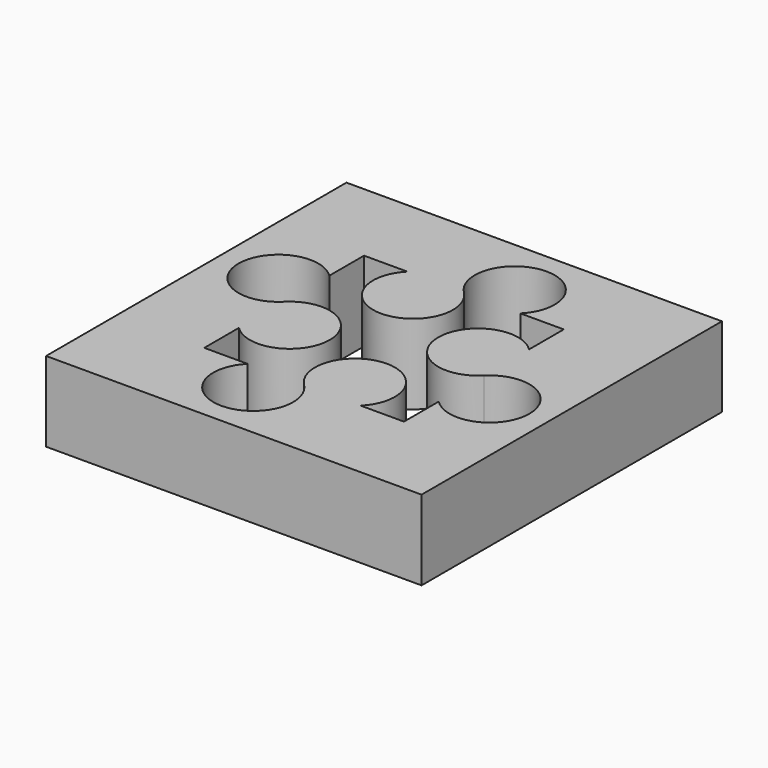
from build123d import *

# Parameters (mm, degrees)
SKETCH_W  = 235
SKETCH_H  = 235
PAD_DEPTH = 50


with BuildPart() as part:
    # Sketch → Pad (new body)
    with BuildSketch(Plane.XY):
        Rectangle(SKETCH_W, SKETCH_H)
        with BuildLine():
            Line((62.5, -62.5), (62.5, -35.355339))
            ThreePointArc((62.5, -35.355339), (105.17767, -17.677671), (62.500003, 3e-06))
            ThreePointArc((62.5, 35.355339), (19.82233, 17.677668), (62.500003, 3e-06))
            Line((62.5, 35.355339), (62.5, 62.5))
            Line((62.5, 62.5), (35.355339, 62.5))
            ThreePointArc((35.355339, 62.5), (17.67769, 105.17767), (-2.9e-05, 62.500029))
            ThreePointArc((-35.355339, 62.5), (-17.677649, 19.82233), (-2.9e-05, 62.500029))
            Line((-35.355339, 62.5), (-62.5, 62.5))
            Line((-62.5, 62.5), (-62.5, 35.35541))
            ThreePointArc((-62.5, 35.35541), (-105.177634, 17.67768), (-62.499965, 3.5e-05))
            ThreePointArc((-62.5, -35.355269), (-19.822295, -17.677659), (-62.499965, 3.5e-05))
            Line((-62.5, -35.355269), (-62.5, -62.5))
            Line((-62.5, -62.5), (-35.355339, -62.5))
            ThreePointArc((-35.355339, -62.5), (-17.677671, -105.17767), (3e-06, -62.500003))
            ThreePointArc((35.355339, -62.5), (17.677668, -19.82233), (3e-06, -62.500003))
            Line((35.355339, -62.5), (62.5, -62.5))
        make_face(mode=Mode.SUBTRACT)
    extrude(amount=PAD_DEPTH)


solid = part.part
